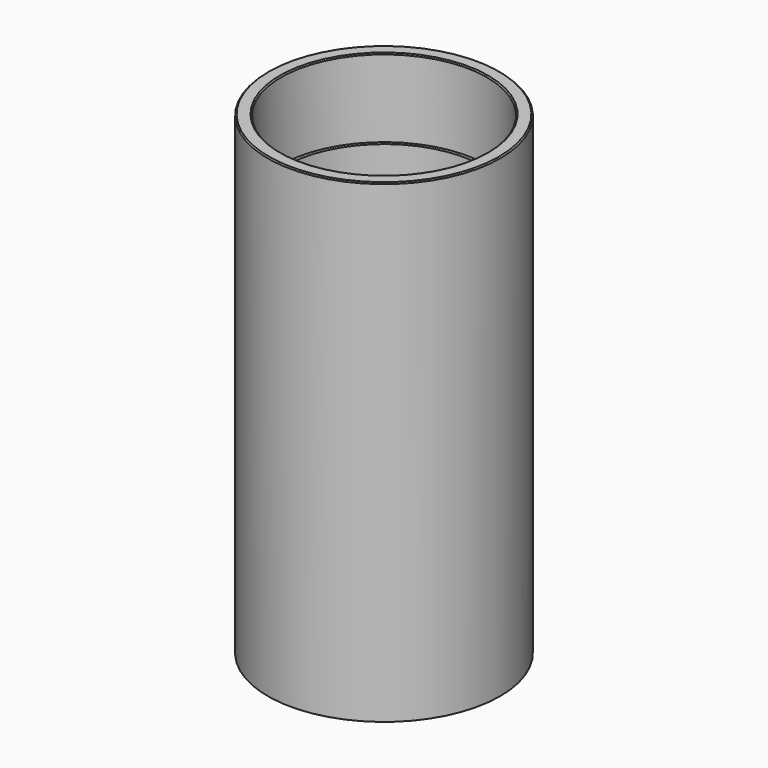
from build123d import *

# Parameters (mm, degrees)
F0_R     = 24.5
F0_R_2   = 21
F1_DEPTH = 100
F2_R     = 21.725
F2_R_2   = 21
F3_DEPTH = 16.5
F4_SIZE  = 0.25


with BuildPart() as f1:
    # F0 (on Top) → F1 (new body)
    with BuildSketch(Plane.XY):
        Circle(F0_R)
        Circle(F0_R_2, mode=Mode.SUBTRACT)
    extrude(amount=F1_DEPTH)

    # F2 (on face) → F3 (cut)
    with BuildSketch(Plane.XY.offset(100)):
        Circle(F2_R)
        Circle(F2_R_2, mode=Mode.SUBTRACT)
    extrude(amount=-F3_DEPTH, mode=Mode.SUBTRACT)

    # F4
    f4_edges = [f1.edges().sort_by_distance(p)[0] for p in [
        (-24.5, 0, 100),
        (-21.725, 0, 100),
    ]]
    chamfer(f4_edges, length=F4_SIZE)


solid = f1.part
